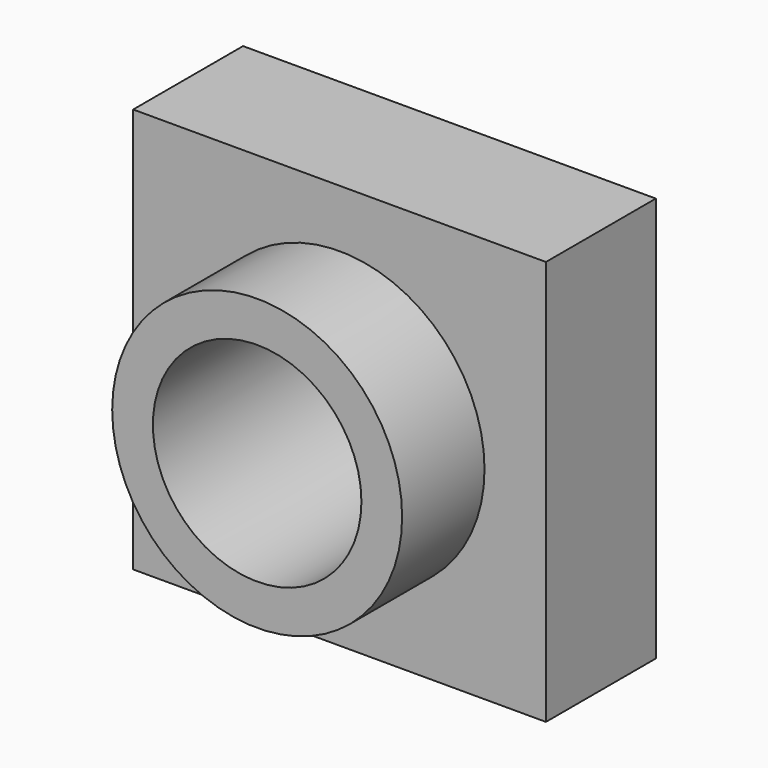
from build123d import *

# Parameters (mm, degrees)
F0_W          = 152.688384
F0_H          = 149.784088
F1_DEPTH      = 25.4
F1_DEPTH_BACK = 25.4
F2_R          = 53.622423
F3_DEPTH      = 38.1
F4_R          = 38.570036
F5_DEPTH      = 127


with BuildPart() as f1:
    # F0 (on Front) → F1 (new body, two sides)
    with BuildSketch(Plane.XZ) as f1_sk:
        Rectangle(F0_W, F0_H)
    extrude(amount=F1_DEPTH)
    extrude(f1_sk.sketch, amount=-F1_DEPTH_BACK)

    # F2 (on face) → F3 (join)
    with BuildSketch(Plane.XZ.offset(25.4)):
        Circle(F2_R)
    extrude(amount=F3_DEPTH)

    # F4 (on face) → F5 (cut)
    with BuildSketch(Plane.XZ.offset(63.5)):
        Circle(F4_R)
    extrude(amount=-F5_DEPTH, mode=Mode.SUBTRACT)


solid = f1.part
